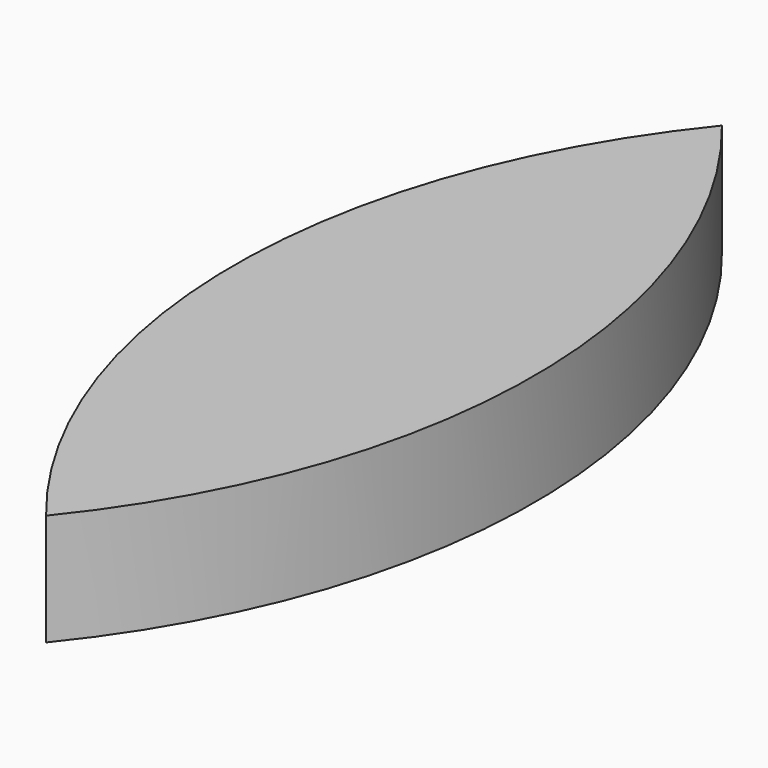
from build123d import *

# Parameters (mm, degrees)
F1_DEPTH = 25.4


with BuildPart() as f1:
    # F0 (on Top) → F1 (new body)
    with BuildSketch(Plane.XY):
        with BuildLine():
            ThreePointArc((0, -96.095098), (34.114362, 0), (0, 96.095098))
            ThreePointArc((0, 96.095098), (-34.114362, 0), (0, -96.095098))
        make_face()
        with BuildLine():
            add(Edge.make_bspline(
                [(0, 0), (31.465492, 0), (15.732746, 27.526092), (0, 55.052184), (-15.732746, 27.526092), (-31.465492, 0), (0, 0)],
                knots=[0, 0, 0, 2.094395, 2.094395, 4.18879, 4.18879, 6.283185, 6.283185, 6.283185], degree=2, weights=[1, 0.5, 1, 0.5, 1, 0.5, 1]))
        make_face(mode=Mode.SUBTRACT)
        with BuildLine():
            add(Edge.make_bspline(
                [(0, 0), (31.465492, 0), (15.732746, 27.526092), (0, 55.052184), (-15.732746, 27.526092), (-31.465492, 0), (0, 0)],
                knots=[0, 0, 0, 2.094395, 2.094395, 4.18879, 4.18879, 6.283185, 6.283185, 6.283185], degree=2, weights=[1, 0.5, 1, 0.5, 1, 0.5, 1]))
        make_face()
    extrude(amount=F1_DEPTH)


solid = f1.part
